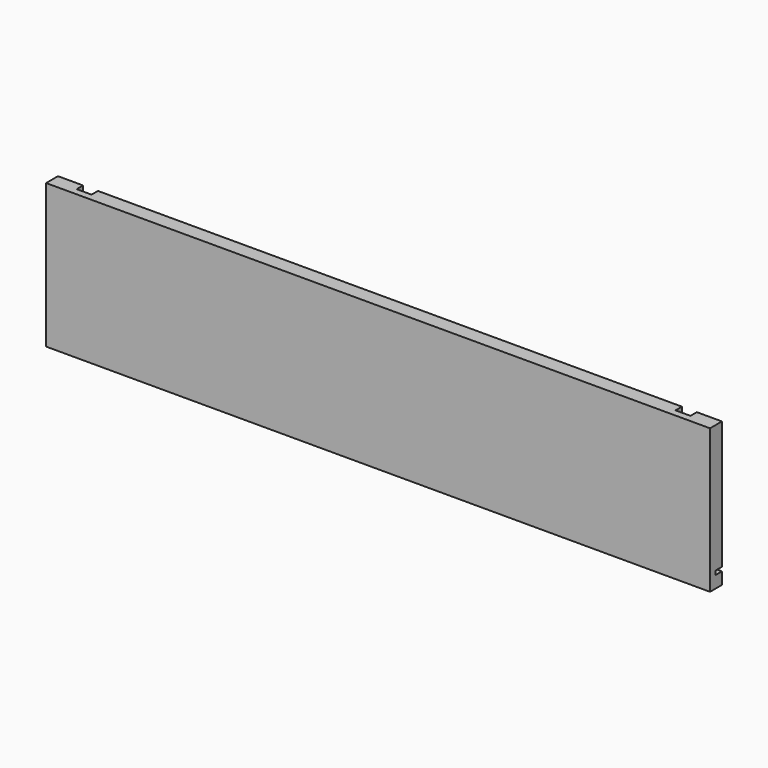
from build123d import *

# Parameters (mm, degrees)
F1_DEPTH = 527.05
F2_W     = 11.8364
F2_H     = 6.35
F3_DEPTH = 114.301


with BuildPart() as f1:
    # F0 (on Right) → F1 (new body)
    with BuildSketch(Plane.YZ):
        Polygon((0, 0), (-11.811, 0), (-11.811, -101.544328), (-11.811, -104.719328), (-11.811, -114.3), (0, -114.3), (0, -104.775), (-6.35, -104.775), (-6.35, -101.6), (0, -101.6), align=None)
    extrude(amount=-F1_DEPTH)

    # F2 (on Top) → F3 (cut, through all)
    with BuildSketch(Plane.XY):
        with Locations((-25.8318, -3.175)):
            Rectangle(F2_W, F2_H)
        with Locations((-501.2182, -3.175)):
            Rectangle(F2_W, F2_H)
    extrude(amount=-F3_DEPTH, mode=Mode.SUBTRACT)


solid = f1.part
